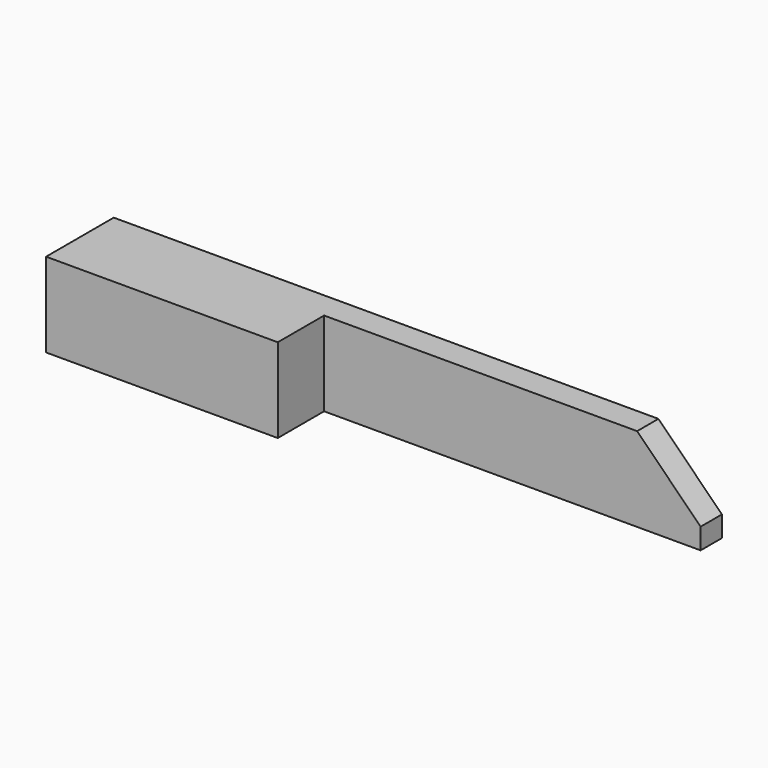
from build123d import *

# Parameters (mm, degrees)
F0_W     = 50.8
F0_H     = 12.7
F1_DEPTH = 18.4912
F3_DEPTH = 5.843


with BuildPart() as f1:
    # F0 (on Top) → F1 (new body)
    with BuildSketch(Plane.XY):
        Polygon((0, -5.842), (0, 0), (-133.35, 0), (-133.35, -5.842), (-82.55, -5.842), align=None)
        with Locations((-107.95, -12.192)):
            Rectangle(F0_W, F0_H)
    extrude(amount=-F1_DEPTH)

    # F2 (on face) → F3 (cut, through all)
    with BuildSketch(Plane.XZ.offset(5.842)):
        Polygon((0, -13.9192), (0, 0), (-13.9192, 0), align=None)
    extrude(amount=-F3_DEPTH, mode=Mode.SUBTRACT)


solid = f1.part
